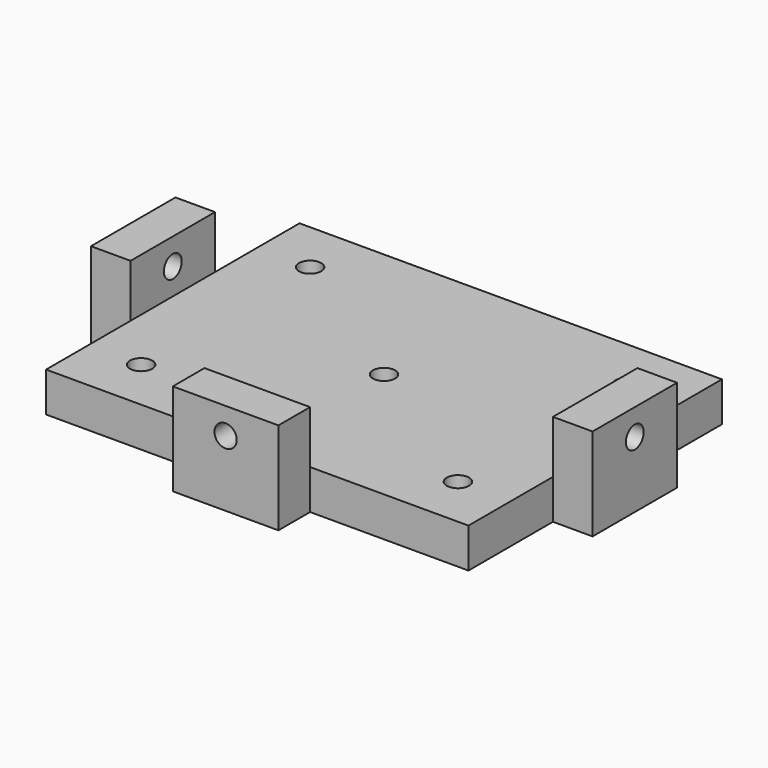
from build123d import *

# Parameters (mm, degrees)
F0_W     = 203.2
F0_H     = 152.4
F1_DEPTH = 19.05
F3_D     = 10.71626
F4_W     = 19.05
F4_H     = 50.8
F4_W_2   = 50.8
F4_H_2   = 19.05
F5_DEPTH = 44.45
F7_D     = 10.71626
F9_D     = 10.71626


with BuildPart() as f1:
    # F0 (on Top) → F1 (new body)
    with BuildSketch(Plane.XY):
        Rectangle(F0_W, F0_H)
    extrude(amount=F1_DEPTH)

    # F3 (through all)
    with Locations(Plane.XY.offset(19.05)):
        with Locations((-76.2, 50.8), (76.2, 50.8), (0, 0), (-76.2, -50.8), (76.2, -50.8)):
            Hole(F3_D / 2)

    # F4 (on face) → F5 (join)
    with BuildSketch(Plane.XY):
        with Locations((-111.125, 0)):
            Rectangle(F4_W, F4_H)
        with Locations((0, -85.725)):
            Rectangle(F4_W_2, F4_H_2)
        with Locations((111.125, 0)):
            Rectangle(F4_W, F4_H)
    extrude(amount=F5_DEPTH)

    # F7 (through all)
    with Locations(Plane.XZ.offset(95.25)):
        with Locations((0, 31.75)):
            Hole(F7_D / 2)

    # F9 (through all)
    with Locations(Plane(origin=(-120.65, 0, 0), x_dir=(0, -1, 0), z_dir=(-1, 0, 0))):
        with Locations((0, 31.75)):
            Hole(F9_D / 2)


solid = f1.part
